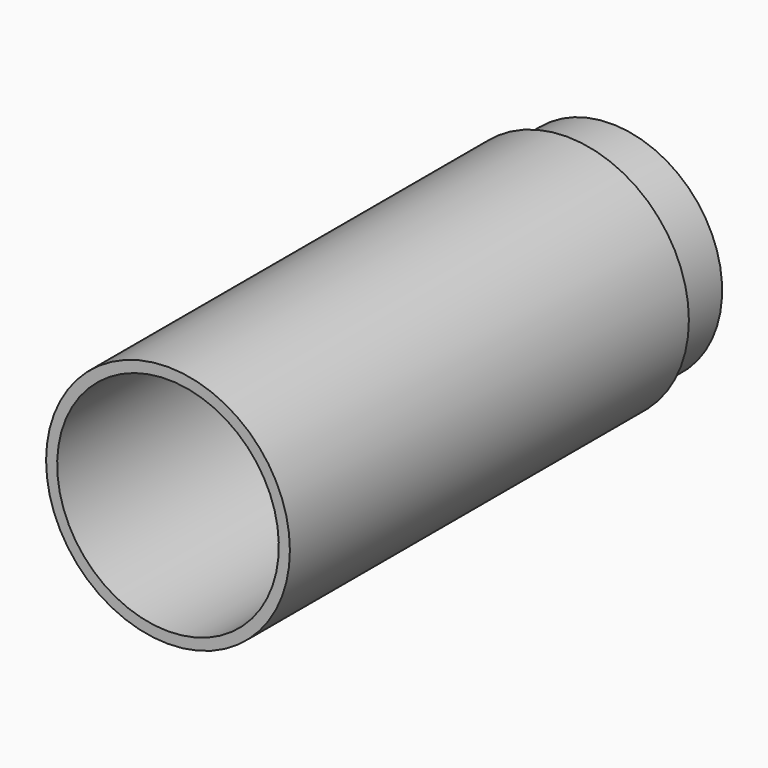
from build123d import *

# Parameters (mm, degrees)
F0_W     = 90
F0_H     = 2
F2_R     = 20
F3_DEPTH = 10
F4_R     = 18
F5_DEPTH = 13


with BuildPart() as f1:
    # F0 (on Right) → F1 (revolve)
    with BuildSketch(Plane.YZ):
        with Locations((0, -21)):
            Rectangle(F0_W, F0_H)
    revolve(axis=Axis((0, 40.8125, 0), (0, 1, 0)))

    # F2 (on face) → F3 (join, symmetric)
    with BuildSketch(Plane(origin=(0, 45, 0), x_dir=(-1, 0, 0), z_dir=(0, 1, 0))):
        Circle(F2_R)
    extrude(amount=F3_DEPTH, both=True)

    # F4 (on face) → F5 (cut)
    with BuildSketch(Plane(origin=(0, 55, 0), x_dir=(-1, 0, 0), z_dir=(0, 1, 0))):
        Circle(F4_R)
    extrude(amount=-F5_DEPTH, mode=Mode.SUBTRACT)


solid = f1.part
